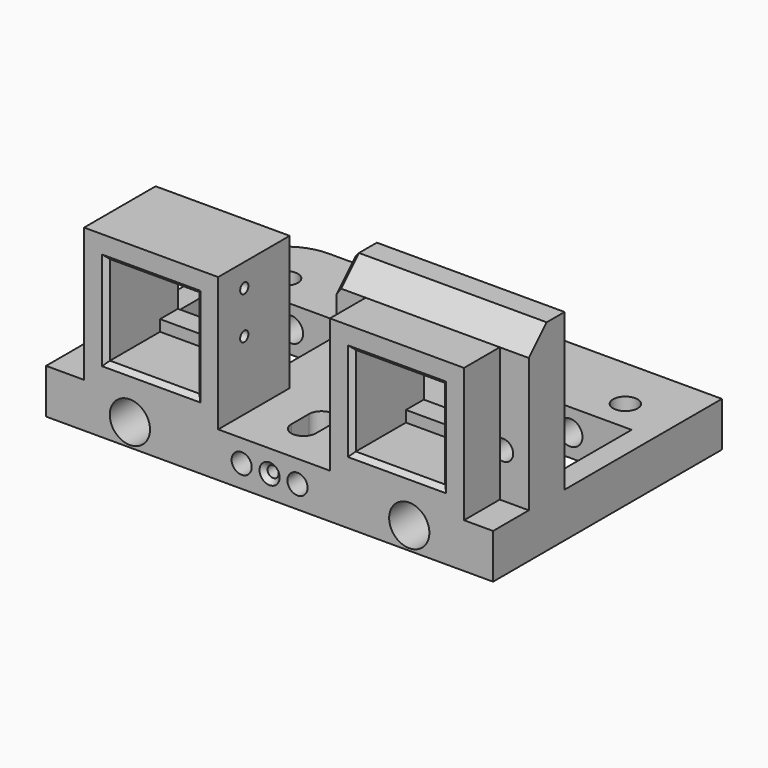
from build123d import *

# Parameters (mm, degrees)
SKETCH_R         = 2.75
SKETCH_W         = 27.5
SKETCH_H         = 25
PAD_DEPTH        = 10
SKETCH001_W      = 30
SKETCH001_H      = 20
PAD001_DEPTH     = 30
PAD002_DEPTH     = 35
SKETCH003_W      = 20
SKETCH003_H      = 20
POCKET_DEPTH     = 15
SKETCH004_W      = 20
SKETCH004_H      = 15
POCKET001_DEPTH  = 64.000985
HOLE_D           = 5.5
HOLE_CBORE_D     = 9
HOLE_CBORE_DEPTH = 15
POCKET003_DEPTH  = 10.001
SKETCH011_W      = 30
SKETCH011_H      = 10
POCKET004_DEPTH  = 5
CHAMFER_SIZE     = 4.999
SKETCH012_R      = 2.25
HOLE001_DEPTH    = 10
SKETCH013_W      = 25
SKETCH013_H      = 21
POCKET005_DEPTH  = 10.001
SKETCH014_R      = 2.25
HOLE002_DEPTH    = 43.000985
SKETCH015_R      = 1.15
POCKET006_DEPTH  = 5
PAD003_DEPTH     = 10
CHAMFER001_SIZE  = 1
SKETCH017_R      = 1.25
HOLE003_DEPTH    = 10
HOLE003_TIPS_R   = 1.25
CHAMFER002_SIZE  = 1


with BuildPart() as part:
    # Sketch → Pad (new body)
    with BuildSketch(Plane.XY):
        with BuildLine():
            Line((100, 0), (100, 51.999985))
            ThreePointArc((100, 51.999985), (96.485281, 60.485267), (88, 63.999985))
            Line((12, 63.999985), (88, 63.999985))
            ThreePointArc((12, 63.999985), (3.514719, 60.485267), (0, 51.999985))
            Line((0, 51.999985), (0, 0))
            Line((0, 0), (100, 0))
        make_face()
        with Locations((12, 51.999985)):
            Circle(SKETCH_R, mode=Mode.SUBTRACT)
        with Locations((88, 51.999985)):
            Circle(SKETCH_R, mode=Mode.SUBTRACT)
        Polygon((32.5, 45), (32.5, 20), (5, 20), (5, 45), (18.75, 45), align=None, mode=Mode.SUBTRACT)
        with Locations((81.25, 32.5)):
            Rectangle(SKETCH_W, SKETCH_H, mode=Mode.SUBTRACT)
        with BuildLine():
            ThreePointArc((47.25, 9.499985), (50, 6.749985), (52.75, 9.499985))
            Line((52.75, 9.499985), (52.75, 14.499985))
            ThreePointArc((52.75, 14.499985), (50, 17.249985), (47.25, 14.499985))
            Line((47.25, 9.499985), (47.25, 14.499985))
        make_face(mode=Mode.SUBTRACT)
    extrude(amount=PAD_DEPTH)

    # Sketch001 (on Face23 of Pad) → Pad001 (join)
    with BuildSketch(Plane.XY.offset(10)):
        with Locations((23.5, 10)):
            Rectangle(SKETCH001_W, SKETCH001_H)
    extrude(amount=PAD001_DEPTH)

    # Sketch002 (on Face5 of Pad001) → Pad002 (join)
    with BuildSketch(Plane.XY.offset(10)):
        Polygon((63.5, 10), (57, 10), (57, 20), (100, 20), (100, 10), (93.5, 10), (93.5, 0), (63.5, 0), align=None)
    extrude(amount=PAD002_DEPTH)

    # Sketch003 (on Face9 of Pad002) → Pocket (cut)
    with BuildSketch(Plane.XZ):
        with Locations((23.5, 25)):
            Rectangle(SKETCH003_W, SKETCH003_H)
        with Locations((78.5, 25)):
            Rectangle(SKETCH003_W, SKETCH003_H)
    extrude(amount=-POCKET_DEPTH, mode=Mode.SUBTRACT)

    # Sketch004 (on Face9 of Pocket) → Pocket001 (cut, through all)
    with BuildSketch(Plane.XZ):
        with Locations((23.5, 25)):
            Rectangle(SKETCH004_W, SKETCH004_H)
        with Locations((78.5, 25)):
            Rectangle(SKETCH004_W, SKETCH004_H)
    extrude(amount=-POCKET001_DEPTH, mode=Mode.SUBTRACT)

    # Hole (through all)
    with Locations(Plane.XZ):
        with Locations((81.25, 5), (18.75, 5)):
            CounterBoreHole(HOLE_D / 2, HOLE_CBORE_D / 2, HOLE_CBORE_DEPTH)

    # Sketch010 → Pocket003 (cut, through all)
    with BuildSketch(Plane.XY.offset(10)):
        with BuildLine():
            ThreePointArc((47.748891, 59.001218), (44.998891, 61.751218), (42.248891, 59.001218))
            Line((42.248891, 59.001218), (42.248891, 54.001218))
            ThreePointArc((42.248891, 54.001218), (44.998891, 51.251218), (47.748891, 54.001218))
            Line((47.748891, 59.001218), (47.748891, 54.001218))
        make_face()
        with BuildLine():
            ThreePointArc((57.748891, 59.001218), (54.998891, 61.751218), (52.248891, 59.001218))
            Line((52.248891, 59.001218), (52.248891, 54.001218))
            ThreePointArc((52.248891, 54.001218), (54.998891, 51.251218), (57.748891, 54.001218))
            Line((57.748891, 59.001218), (57.748891, 54.001218))
        make_face()
    extrude(amount=-POCKET003_DEPTH, mode=Mode.SUBTRACT)

    # Sketch011 (on Face41 of Pocket003) → Pocket004 (cut)
    with BuildSketch(Plane.XY.offset(45)):
        with Locations((78.5, 5)):
            Rectangle(SKETCH011_W, SKETCH011_H)
    extrude(amount=-POCKET004_DEPTH, mode=Mode.SUBTRACT)

    # Chamfer
    chamfer_edges = [part.edges().sort_by_distance(p)[0] for p in [
        (60.25, 10, 45),
        (78.5, 10, 45),
        (96.75, 10, 45),
    ]]
    chamfer(chamfer_edges, length=CHAMFER_SIZE)

    # Sketch012 (on Face6 of Chamfer) → Hole001 (cut)
    with BuildSketch(Plane(origin=(0, 20, 0), x_dir=(-1, 0, 0), z_dir=(0, 1, 0))):
        with Locations((-94.25, 20)):
            Circle(SKETCH012_R)
        with Locations((-62.75, 20)):
            Circle(SKETCH012_R)
    extrude(amount=-HOLE001_DEPTH, mode=Mode.SUBTRACT)

    # Sketch013 (on Face15 of Hole001) → Pocket005 (cut, through all)
    with BuildSketch(Plane.XY.offset(10)):
        with Locations((50, 53.499985)):
            Rectangle(SKETCH013_W, SKETCH013_H)
    extrude(amount=-POCKET005_DEPTH, mode=Mode.SUBTRACT)

    # Sketch014 (on Face36 of Pocket005) → Hole002 (cut, through all)
    with BuildSketch(Plane(origin=(0, 42.999985, 0), x_dir=(-1, 0, 0), z_dir=(0, 1, 0))):
        with Locations((-56.25, 5)):
            Circle(SKETCH014_R)
        with Locations((-43.75, 5)):
            Circle(SKETCH014_R)
    extrude(amount=-HOLE002_DEPTH, mode=Mode.SUBTRACT)

    # Sketch015 (on Face55 of Hole002) → Pocket006 (cut)
    with BuildSketch(Plane(origin=(38.5, 0, 0), x_dir=(0, -1, 0), z_dir=(-1, 0, 0))):
        with Locations((-7.3, 34.85)):
            Circle(SKETCH015_R)
        with Locations((-7.3, 25.35)):
            Circle(SKETCH015_R)
    extrude(amount=POCKET006_DEPTH, mode=Mode.SUBTRACT)

    # Sketch016 (on Face15 of Pocket006) → Pad003 (join)
    with BuildSketch(Plane.XY.offset(10)):
        Polygon((100, 51.999985), (88, 63.999985), (100, 63.999985), align=None)
    extrude(amount=-PAD003_DEPTH)

    # Chamfer001
    chamfer001_edges = [part.edges().sort_by_distance(p)[0] for p in [
        (13.5, 0, 25),
        (13.5, 0, 33.75),
        (23.5, 0, 35),
        (13.5, 0, 16.25),
        (23.5, 0, 15),
        (33.5, 0, 25),
        (33.5, 0, 33.75),
        (33.5, 0, 16.25),
        (68.5, 0, 25),
        (68.5, 0, 16.25),
        (68.5, 0, 33.75),
        (78.5, 0, 35),
        (88.5, 0, 33.75),
        (88.5, 0, 25),
        (88.5, 0, 16.25),
        (78.5, 0, 15),
    ]]
    chamfer(chamfer001_edges, length=CHAMFER001_SIZE)

    # Sketch017 (on Face10 of Chamfer001) → Hole003 (cut)
    with BuildSketch(Plane.XZ):
        with Locations((50, 5)):
            Circle(SKETCH017_R)
    extrude(amount=-HOLE003_DEPTH, mode=Mode.SUBTRACT)

    # Hole003 tips → Hole003 tip 1 section 0
    with BuildSketch(Plane.XZ.offset(-10), mode=Mode.PRIVATE) as hole003_tip_1_s0:
        with Locations((50, 5)):
            Circle(HOLE003_TIPS_R)
    loft([hole003_tip_1_s0.sketch, Vertex(50, 10.751076, 5)], mode=Mode.SUBTRACT)

    # Chamfer002
    chamfer002_edges = [part.edges().sort_by_distance(p)[0] for p in [
        (51.25, 0, 5),
        (57, 17.4995, 45),
        (41.5, 42.999985, 5),
        (54, 42.999985, 5),
        (57, 12.4995, 42.5005),
    ]]
    chamfer(chamfer002_edges, length=CHAMFER002_SIZE)


solid = part.part
